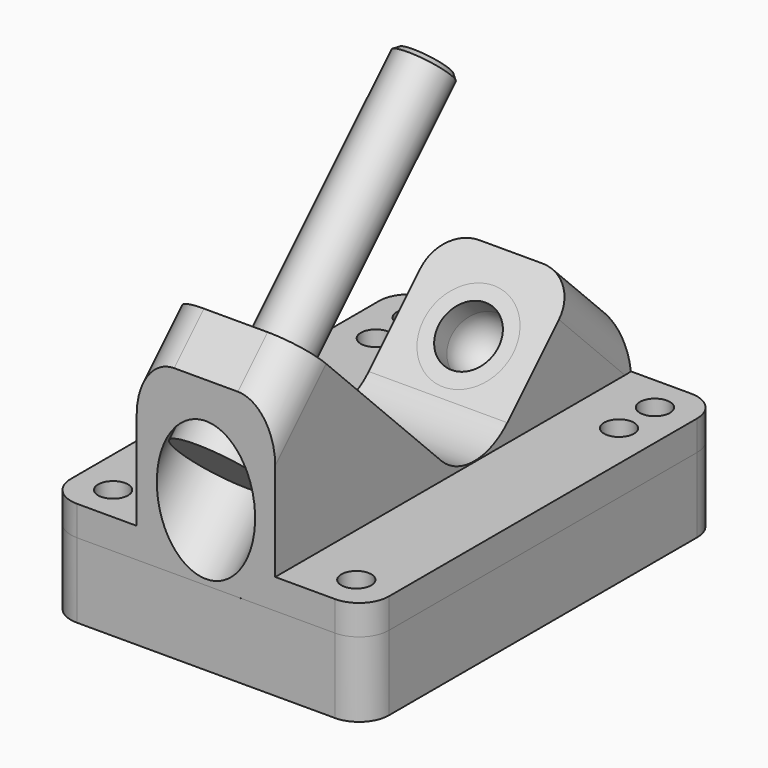
from build123d import *

# Parameters (mm, degrees)
F1_DEPTH  = 27.0002
F2_R      = 9.906
F3_W      = 75.565
F3_H      = 31.9594877579
F4_DEPTH  = 15.24
F6_R      = 6.35
F7_R      = 5.08
F5_R      = 2.54
F8_DEPTH  = 5.081
F14_SIZE  = 0.762
F19_W     = 54.0004
F19_H     = 75.565
F19_R     = 2.54
F20_DEPTH = 12.7
F21_R     = 5.08


with BuildPart() as f1:
    # F0 (on Right) → F1 (new body)
    with BuildSketch(Plane.YZ):
        Polygon((0, 30.7152561211), (0, 0), (75.565, 0), (75.565, 12.7), (64.6958964237, 23.5691035763), (42.2452561211, 1.1184632736), (6.3242316368, 37.0394877579), align=None)
    extrude(amount=F1_DEPTH)

    # F2
    f2_edges = [f1.edges().sort_by_distance(p)[0] for p in [
        (13.5001, 42.245256, 1.118463),
    ]]
    fillet(f2_edges, radius=F2_R)

    # F3 (on face) → F4 (cut)
    with BuildSketch(Plane.YZ.offset(27.0002)):
        with Locations((37.7825, 21.0597438789)):
            Rectangle(F3_W, F3_H)
    extrude(amount=-F4_DEPTH, mode=Mode.SUBTRACT)

    # F6
    f6_edges = [f1.edges().sort_by_distance(p)[0] for p in [
        (11.7602, 3.162116, 33.877372),
        (11.7602, 70.130448, 18.134552),
    ]]
    fillet(f6_edges, radius=F6_R)

    # F7
    f7_edges = [f1.edges().sort_by_distance(p)[0] for p in [
        (27.0002, 0, 2.54),
        (27.0002, 75.565, 2.54),
    ]]
    fillet(f7_edges, radius=F7_R)

    # F5 (on face) → F8 (cut, through all)
    with BuildSketch(Plane.XY.offset(5.08)):
        with Locations((20.6502, 69.469)):
            Circle(F5_R)
        with Locations((20.6502, 61.849)):
            Circle(F5_R)
        with Locations((20.6502, 6.096)):
            Circle(F5_R)
    extrude(amount=-F8_DEPTH, mode=Mode.SUBTRACT)

    # F9: F1 across face


with BuildPart() as f1_1:
    add(f1.part)
    add(f1.part.mirror(Plane(origin=(0, 31.4337361572, 11.6287579026), x_dir=(0, 1, 0), z_dir=(-1, 0, 0))))

    # F10 (on Right) → F11 (revolve, cut)
    with BuildSketch(Plane.YZ):
        Polygon((-6.3773719395, 6.3773719395), (15.3044877579, 28.0592316368), (11.9368917125, 31.4268276822), (5.2016996217, 24.6916355914), (2.6692673955, 27.2240678175), (-12.277400211, 12.277400211), align=None)
    revolve(axis=Axis((0, 22.0396798487, 34.7944237276), (0, 0.7071067812, 0.7071067812)), mode=Mode.SUBTRACT)

    # F15 (on Right) → F16 (revolve, cut)
    with BuildSketch(Plane.YZ):
        Polygon((64.6958964237, 5.6085913341), (70.0840500964, 10.9967450068), (61.1037939753, 19.9770011278), (55.7156403027, 14.5888474552), align=None)
    revolve(axis=Axis((0, 46.7353841816, 23.5691035763), (0, 0.7071067812, -0.7071067812)), mode=Mode.SUBTRACT)


with BuildPart() as f13:
    # F12 (on Right) → F13 (revolve)
    with BuildSketch(Plane.YZ):
        Polygon((11.9368917125, 31.4268276822), (5.2016996217, 24.6916355914), (2.9566355914, 26.9366996217), (-2.0702565748, 21.9098074555), (3.5326075511, 16.2873514301), (46.7353841816, 59.4901280605), (43.3677881362, 62.8577241059), align=None)
    revolve(axis=Axis((0, 25.1339958664, 37.8887397453), (0, 0.7071067812, 0.7071067812)))

    # F14
    f14_edges = [f13.edges().sort_by_distance(p)[0] for p in [
        (0, 50.10298, 56.122532),
    ]]
    chamfer(f14_edges, length=F14_SIZE)


with BuildPart() as f18:
    # F17 (on Right) → F18 (revolve)
    with BuildSketch(Plane.YZ):
        with BuildLine():
            ThreePointArc((62.0018195874, 15.4868730673), (63.489717139, 11.8947706189), (62.0018195874, 8.3026681704))
            Line((62.0018195874, 8.3026681704), (64.6958964237, 5.6085913341))
            Line((64.6958964237, 5.6085913341), (70.0840500964, 10.9967450068))
            Line((70.0840500964, 10.9967450068), (61.1037939753, 19.9770011278))
            Line((61.1037939753, 19.9770011278), (59.3077427511, 18.1809499036))
            Line((59.3077427511, 18.1809499036), (62.0018195874, 15.4868730673))
        make_face()
    revolve(axis=Axis((0, 63.3488580056, 6.9556297523), (0, 0.7071067812, -0.7071067812)))


with BuildPart() as f20:
    # F19 (on face) → F20 (new body)
    with BuildSketch(Plane(origin=(0, 0, 0), x_dir=(1, 0, 0), z_dir=(0, 0, -1))):
        with Locations((0, -37.7825)):
            Rectangle(F19_W, F19_H)
        with Locations((-20.6502, -69.469)):
            Circle(F19_R, mode=Mode.SUBTRACT)
        with Locations((20.6502, -69.469)):
            Circle(F19_R, mode=Mode.SUBTRACT)
        with Locations((-20.6502, -6.096)):
            Circle(F19_R, mode=Mode.SUBTRACT)
        with Locations((20.6502, -6.096)):
            Circle(F19_R, mode=Mode.SUBTRACT)
    extrude(amount=F20_DEPTH)

    # F21
    f21_edges = [f20.edges().sort_by_distance(p)[0] for p in [
        (27.0002, 0, -6.35),
        (27.0002, 75.565, -6.35),
        (-27.0002, 0, -6.35),
        (-27.0002, 75.565, -6.35),
    ]]
    fillet(f21_edges, radius=F21_R)


solid = Compound([f1_1.part, f13.part, f18.part, f20.part])
